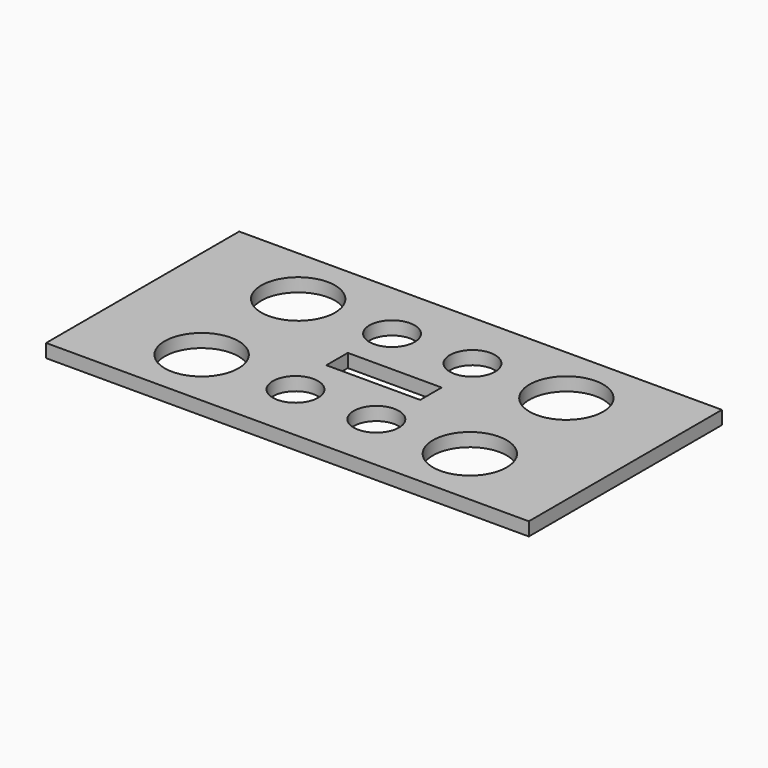
from build123d import *

# Parameters (mm, degrees)
F0_W     = 914.4
F0_H     = 457.2
F0_R     = 69.85
F0_R_2   = 42.8625
F0_W_2   = 177.8
F0_H_2   = 50.8
F1_DEPTH = 19.05
F2_DEPTH = 25.4


with BuildPart() as f1:
    # F0 (on Top) → F1 (new body)
    with BuildSketch(Plane.XY):
        with Locations((457.2, -228.6)):
            Rectangle(F0_W, F0_H)
        with Locations((203.2, -342.9)):
            Circle(F0_R, mode=Mode.SUBTRACT)
        with Locations((381, -342.9)):
            Circle(F0_R_2, mode=Mode.SUBTRACT)
        with Locations((534.1420173645, -342.9)):
            Circle(F0_R_2, mode=Mode.SUBTRACT)
        with Locations((711.2, -342.9)):
            Circle(F0_R, mode=Mode.SUBTRACT)
        with Locations((203.2, -114.3)):
            Circle(F0_R, mode=Mode.SUBTRACT)
        with Locations((381, -114.3)):
            Circle(F0_R_2, mode=Mode.SUBTRACT)
        with Locations((457.2, -228.6)):
            Rectangle(F0_W_2, F0_H_2, mode=Mode.SUBTRACT)
        with Locations((533.3767533302, -114.3)):
            Circle(F0_R_2, mode=Mode.SUBTRACT)
        with Locations((711.2, -114.3)):
            Circle(F0_R, mode=Mode.SUBTRACT)
    extrude(amount=F1_DEPTH)

    # F2 (add): a face of the model
    f2_faces = [f1.faces().sort_by_distance(p)[0] for p in [
        (457.2, -10.2233027931, 0),
    ]]
    extrude(f2_faces, amount=-F2_DEPTH)


solid = f1.part
